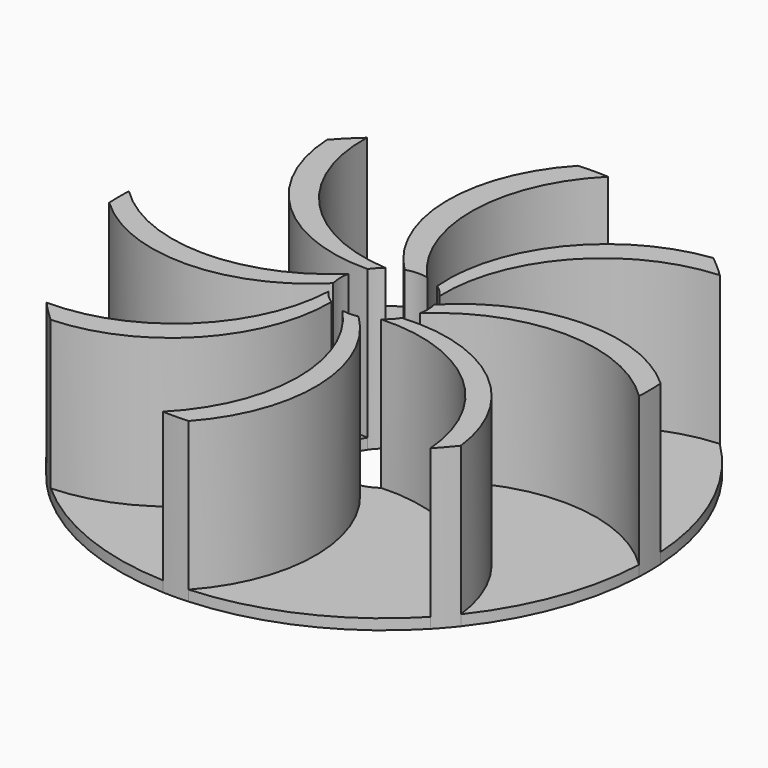
from build123d import *

# Parameters (mm, degrees)
F1_DEPTH = 19.05
F2_DEPTH = 1.27
F4_D     = 10.414
F4_2_D   = 10.414


with BuildPart() as f1:
    # F0 (on Top) → F1 (new body)
    with BuildSketch(Plane.XY):
        with BuildLine():
            ThreePointArc((-4.15057, 2.929021), (-3.596615, 3.587584), (-2.939447, 4.143194))
            ThreePointArc((-2.939447, 4.143194), (-15.926713, 10.234619), (-20.982556, 23.658962))
            ThreePointArc((-20.982556, 23.658962), (-22.348308, 22.373361), (-23.635438, 21.00905))
            ThreePointArc((-23.635438, 21.00905), (-17.567432, 8.009101), (-4.15057, 2.929021))
        make_face()
        with BuildLine():
            ThreePointArc((-1.414659, 4.879051), (-0.078206, 5.079398), (1.263782, 4.92029))
            ThreePointArc((1.263782, 4.92029), (-4.022436, 18.315919), (1.57705, 31.583652))
            ThreePointArc((1.57705, 31.583652), (-0.220309, 31.622233), (-2.016956, 31.558612))
            ThreePointArc((-2.016956, 31.558612), (-7.168019, 18.095747), (-1.414659, 4.879051))
        make_face()
        with BuildLine():
            ThreePointArc((2.939447, 4.143194), (3.738822, 3.439129), (4.373801, 2.583847))
            ThreePointArc((4.373801, 2.583847), (9.193806, 16.20891), (22.190942, 22.529452))
            ThreePointArc((22.190942, 22.529452), (20.88971, 23.74098), (19.522447, 24.877463))
            ThreePointArc((19.522447, 24.877463), (7.023926, 17.875049), (2.939447, 4.143194))
        make_face()
        with BuildLine():
            ThreePointArc((4.960279, 1.096374), (5.049981, 0.551446), (5.08, 0))
            ThreePointArc((5.08, 0), (5.045837, -0.588156), (4.943808, -1.168401))
            ThreePointArc((4.943808, -1.168401), (18.300314, 4.193169), (31.595492, -1.31872))
            ThreePointArc((31.595492, -1.31872), (31.621363, 0.32179), (31.562112, 1.961433))
            ThreePointArc((31.562112, 1.961433), (18.085065, 6.945155), (4.960279, 1.096374))
        make_face()
        with BuildLine():
            ThreePointArc((24.846985, -19.561224), (17.937118, -7.00249), (4.227848, -2.816328))
            ThreePointArc((4.227848, -2.816328), (3.580795, -3.603375), (2.789696, -4.245468))
            ThreePointArc((2.789696, -4.245468), (16.453026, -8.872834), (22.955675, -21.749738))
            ThreePointArc((22.955675, -21.749738), (23.926366, -20.677117), (24.846985, -19.561224))
        make_face()
        with BuildLine():
            ThreePointArc((1.839998, -31.569424), (6.78046, -18.095188), (0.91574, -4.996781))
            ThreePointArc((0.91574, -4.996781), (-0.063033, -5.079609), (-1.039449, -4.972519))
            ThreePointArc((-1.039449, -4.972519), (4.292181, -18.323762), (-1.225371, -31.59925))
            ThreePointArc((-1.225371, -31.59925), (0.307675, -31.621503), (1.839998, -31.569424))
        make_face()
        with BuildLine():
            ThreePointArc((-21.034558, -23.61274), (-7.97312, -17.63866), (-2.795924, -4.241369))
            ThreePointArc((-2.795924, -4.241369), (-3.643508, -3.53995), (-4.320202, -2.672499))
            ThreePointArc((-4.320202, -2.672499), (-10.15953, -15.817398), (-23.524903, -21.132749))
            ThreePointArc((-23.524903, -21.132749), (-22.31421, -22.407368), (-21.034558, -23.61274))
        make_face()
        with BuildLine():
            ThreePointArc((-4.931575, -1.219001), (-5.08, 0), (-4.931575, 1.219001))
            ThreePointArc((-4.931575, 1.219001), (-18.279969, -4.18489), (-31.596377, 1.297347))
            ThreePointArc((-31.596377, 1.297347), (-31.622446, -0.187197), (-31.578803, -1.671328))
            ThreePointArc((-31.578803, -1.671328), (-18.162923, -6.880688), (-4.931575, -1.219001))
        make_face()
    extrude(amount=F1_DEPTH)

    # F4 (through all)
    with Locations(Plane.XY.offset(19.05)):
        with Locations((0, 0)):
            Hole(F4_D / 2)


with BuildPart() as f2:
    # F0 (on Top) → F2 (new body)
    with BuildSketch(Plane.XY):
        with BuildLine():
            ThreePointArc((-4.931575, 1.219001), (-4.620864, 2.110454), (-4.15057, 2.929021))
            ThreePointArc((-4.15057, 2.929021), (-17.567432, 8.009101), (-23.635438, 21.00905))
            ThreePointArc((-23.635438, 21.00905), (-29.32194, 11.842211), (-31.596377, 1.297347))
            ThreePointArc((-31.596377, 1.297347), (-18.279969, -4.18489), (-4.931575, 1.219001))
        make_face()
        with BuildLine():
            ThreePointArc((-2.939447, 4.143194), (-2.207924, 4.575092), (-1.414659, 4.879051))
            ThreePointArc((-1.414659, 4.879051), (-7.168019, 18.095747), (-2.016956, 31.558612))
            ThreePointArc((-2.016956, 31.558612), (-12.159173, 29.191927), (-20.982556, 23.658962))
            ThreePointArc((-20.982556, 23.658962), (-15.926713, 10.234619), (-2.939447, 4.143194))
        make_face()
        with BuildLine():
            ThreePointArc((1.263782, 4.92029), (2.13723, 4.608541), (2.939447, 4.143194))
            ThreePointArc((2.939447, 4.143194), (7.023926, 17.875049), (19.522447, 24.877463))
            ThreePointArc((19.522447, 24.877463), (11.069798, 29.622183), (1.57705, 31.583652))
            ThreePointArc((1.57705, 31.583652), (-4.022436, 18.315919), (1.263782, 4.92029))
        make_face()
        with BuildLine():
            ThreePointArc((4.373801, 2.583847), (4.725929, 1.863329), (4.960279, 1.096374))
            ThreePointArc((4.960279, 1.096374), (18.085065, 6.945155), (31.562112, 1.961433))
            ThreePointArc((31.562112, 1.961433), (28.776875, 13.111277), (22.190942, 22.529452))
            ThreePointArc((22.190942, 22.529452), (9.193806, 16.20891), (4.373801, 2.583847))
        make_face()
        with BuildLine():
            ThreePointArc((31.595492, -1.31872), (18.300314, 4.193169), (4.943808, -1.168401))
            ThreePointArc((4.943808, -1.168401), (4.659263, -2.024269), (4.227848, -2.816328))
            ThreePointArc((4.227848, -2.816328), (17.937118, -7.00249), (24.846985, -19.561224))
            ThreePointArc((24.846985, -19.561224), (29.65865, -10.971718), (31.595492, -1.31872))
        make_face()
        with BuildLine():
            ThreePointArc((22.955675, -21.749738), (16.453026, -8.872834), (2.789696, -4.245468))
            ThreePointArc((2.789696, -4.245468), (1.890418, -4.715158), (0.91574, -4.996781))
            ThreePointArc((0.91574, -4.996781), (6.78046, -18.095188), (1.839998, -31.569424))
            ThreePointArc((1.839998, -31.569424), (13.334651, -28.674051), (22.955675, -21.749738))
        make_face()
        with BuildLine():
            ThreePointArc((-1.225371, -31.59925), (4.292181, -18.323762), (-1.039449, -4.972519))
            ThreePointArc((-1.039449, -4.972519), (-1.952221, -4.689908), (-2.795924, -4.241369))
            ThreePointArc((-2.795924, -4.241369), (-7.97312, -17.63866), (-21.034558, -23.61274))
            ThreePointArc((-21.034558, -23.61274), (-11.824644, -29.329029), (-1.225371, -31.59925))
        make_face()
        with BuildLine():
            ThreePointArc((-23.524903, -21.132749), (-10.15953, -15.817398), (-4.320202, -2.672499))
            ThreePointArc((-4.320202, -2.672499), (-4.682629, -1.969616), (-4.931575, -1.219001))
            ThreePointArc((-4.931575, -1.219001), (-18.162923, -6.880688), (-31.578803, -1.671328))
            ThreePointArc((-31.578803, -1.671328), (-29.219708, -12.092262), (-23.524903, -21.132749))
        make_face()
    extrude(amount=F2_DEPTH)

    # F4#2 (through all)
    with Locations(Plane.XY.offset(19.05)):
        with Locations((0, 0)):
            Hole(F4_2_D / 2)


solid = Compound([f1.part, f2.part])
